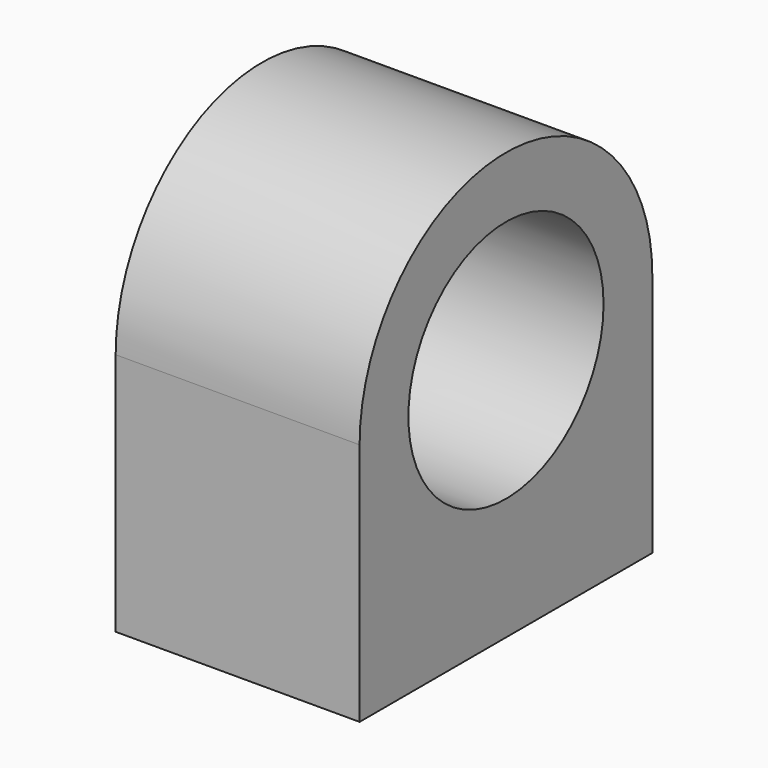
from build123d import *

# Parameters (mm, degrees)
F0_R     = 12.7
F1_DEPTH = 12.7
F3_R     = 3.175
F4_DEPTH = 12.7


with BuildPart() as f1:
    # F0 (on Right) → F1 (new body, symmetric)
    with BuildSketch(Plane.YZ):
        with BuildLine():
            Line((19.05, -25.4), (19.05, 0))
            ThreePointArc((19.05, 0), (0, 19.05), (-19.05, 0))
            Line((-19.05, 0), (-19.05, -25.4))
            Line((-19.05, -25.4), (19.05, -25.4))
        make_face()
        Circle(F0_R, mode=Mode.SUBTRACT)
    extrude(amount=F1_DEPTH, both=True)

    # F3 (on face) → F4 (cut)
    with BuildSketch(Plane(origin=(0, 0, -25.4), x_dir=(1, 0, 0), z_dir=(0, 0, -1))):
        with Locations((0, 12.7)):
            Circle(F3_R)
        with Locations((0, -12.7)):
            Circle(F3_R)
    extrude(amount=-F4_DEPTH, mode=Mode.SUBTRACT)


solid = f1.part
